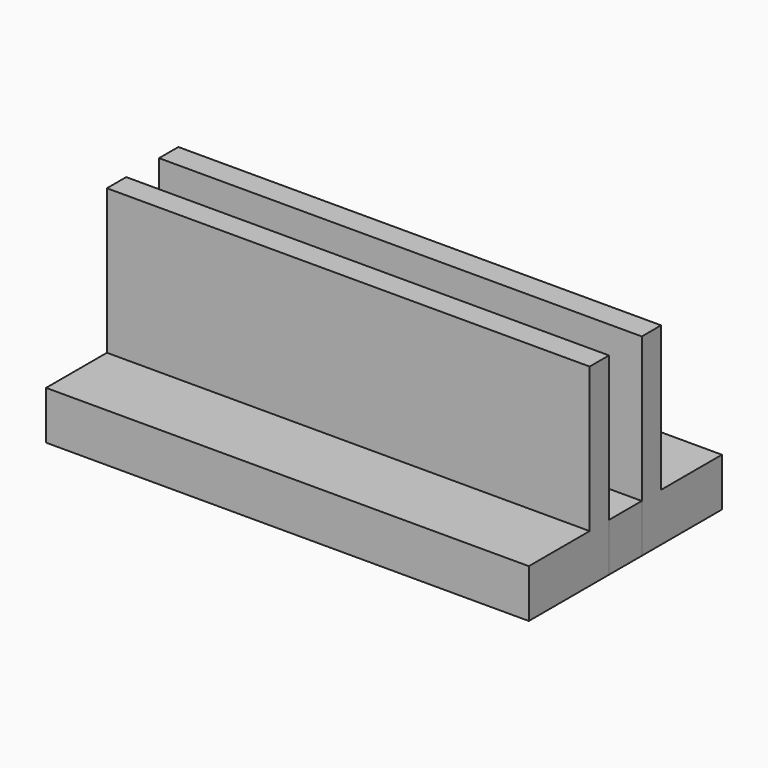
from build123d import *

# Parameters (mm, degrees)
F0_W     = 100
F0_H     = 50
F1_DEPTH = 10
F2_W     = 100
F2_H     = 18.5
F3_DEPTH = 40
F4_W     = 100
F4_H     = 8.5
F5_DEPTH = 40
F6_DEPTH = 10


with BuildPart() as f1:
    # F0 (on Top) → F1 (new body)
    with BuildSketch(Plane.XY):
        Rectangle(F0_W, F0_H)
    extrude(amount=F1_DEPTH)

    # F2 (on Top) → F3 (join)
    with BuildSketch(Plane.XY):
        Rectangle(F2_W, F2_H)
    extrude(amount=F3_DEPTH)

    # F4 (on Top) → F5 (cut)
    with BuildSketch(Plane.XY):
        Rectangle(F4_W, F4_H)
    extrude(amount=F5_DEPTH, mode=Mode.SUBTRACT)


with BuildPart() as f6:
    # F4 (on Top) → F6 (new body)
    with BuildSketch(Plane.XY):
        Rectangle(F4_W, F4_H)
    extrude(amount=F6_DEPTH)


solid = Compound([f1.part, f6.part])
